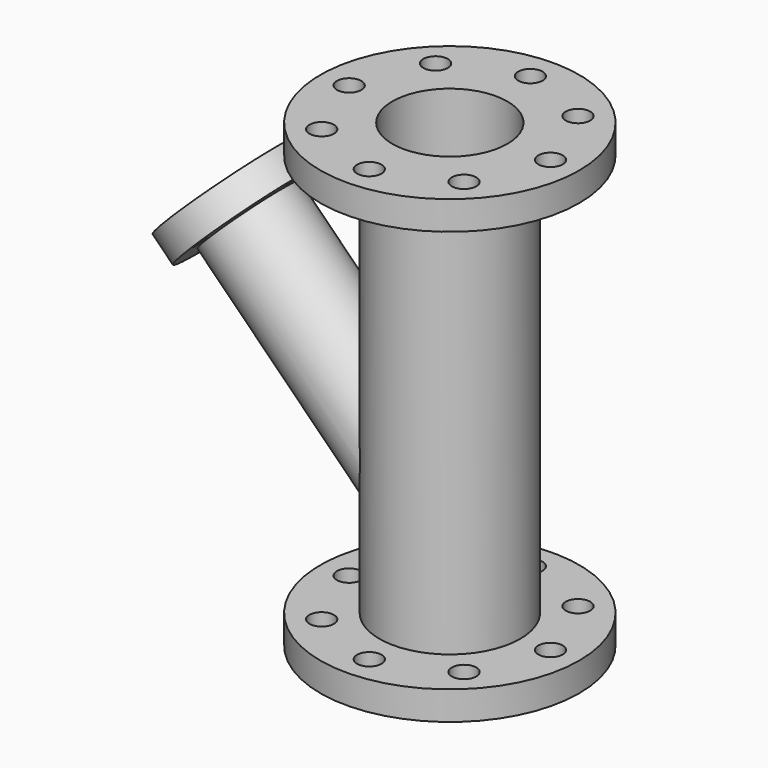
from build123d import *

# Parameters (mm, degrees)
F0_R      = 45
F1_DEPTH  = 10
F3_R      = 24.5
F4_DEPTH  = 140
F5_R      = 45
F5_R_2    = 24.5
F6_DEPTH  = 10
F7_R      = 20
F8_DEPTH  = 500
F10_D     = 8.5
F10_DEPTH = 11
F10_TIP   = 2.5536576309
F12_D     = 8.5
F12_DEPTH = 11
F12_TIP   = 2.5536576309
F15_R     = 16.6806608176
F16_DEPTH = 45
F17_R     = 24.6755230695
F17_R_2   = 16.6806608176
F18_DEPTH = 10
F20_D     = 5
F20_DEPTH = 11
F20_TIP   = 1.5021515476
F21_R     = 16.1397026247
F22_DEPTH = 90


with BuildPart() as f1:
    # F0 (on Top) → F1 (new body)
    with BuildSketch(Plane.XY):
        Circle(F0_R)
    extrude(amount=F1_DEPTH)

    # F3 (on face) → F4 (join)
    with BuildSketch(Plane.XY.offset(10)):
        Circle(F3_R)
    extrude(amount=F4_DEPTH)

    # F5 (on face) → F6 (join)
    with BuildSketch(Plane.XY.offset(150)):
        Circle(F5_R)
        Circle(F5_R_2, mode=Mode.SUBTRACT)
        Circle(F5_R_2)
    extrude(amount=F6_DEPTH)

    # F7 (on face) → F8 (cut)
    with BuildSketch(Plane.XY.offset(160)):
        Circle(F7_R)
    extrude(amount=-F8_DEPTH, mode=Mode.SUBTRACT)

    # F10
    with Locations(Plane(origin=(0, 0, 0), x_dir=(1, 0, 0), z_dir=(0, 0, -1))):
        with Locations((0, 35), (24.7487373415, 24.7487373415), (35, 0), (24.7487373415, -24.7487373415), (0, -35), (-24.7487373415, -24.7487373415), (-35, 0), (-24.7487373415, 24.7487373415)):
            Hole(F10_D / 2, depth=F10_DEPTH)
            with Locations((0, 0, -(F10_DEPTH + F10_TIP / 2))):  # 118° drill point
                Cone(0, F10_D / 2, F10_TIP, mode=Mode.SUBTRACT)

    # F12
    with Locations(Plane.XY.offset(160)):
        with Locations((-24.7487373415, 24.7487373415), (0, 35), (24.7487373415, 24.7487373415), (35, 0), (24.7487373415, -24.7487373415), (0, -35), (-24.7487373415, -24.7487373415), (-35, 0)):
            Hole(F12_D / 2, depth=F12_DEPTH)
            with Locations((0, 0, -(F12_DEPTH + F12_TIP / 2))):  # 118° drill point
                Cone(0, F12_D / 2, F12_TIP, mode=Mode.SUBTRACT)

    # F15 (on line) → F16 (join, symmetric)
    with BuildSketch(Plane(origin=(-57.7216097032, 0, 57.7216097032), x_dir=(0, -1, 0), z_dir=(-0.7071067812, 0, 0.7071067812))):
        with Locations((0, 27.7104377747)):
            Circle(F15_R)
    extrude(amount=F16_DEPTH, both=True)

    # F21 (on face) → F22 (cut)
    with BuildSketch(Plane(origin=(-89.5414148566, 0, 89.5414148566), x_dir=(0, -1, 0), z_dir=(-0.7071067812, 0, 0.7071067812))):
        with Locations((0, 27.7104377747)):
            Circle(F21_R)
    extrude(amount=-F22_DEPTH, mode=Mode.SUBTRACT)


with BuildPart() as f18:
    # F17 (on face) → F18 (new body)
    with BuildSketch(Plane(origin=(-89.5414148566, 0, 89.5414148566), x_dir=(0, -1, 0), z_dir=(-0.7071067812, 0, 0.7071067812))):
        with Locations((0, 27.7104377747)):
            Circle(F17_R)
        with Locations((0, 27.7104377747)):
            Circle(F17_R_2, mode=Mode.SUBTRACT)
    extrude(amount=F18_DEPTH)

    # F20
    with Locations(Plane(origin=(-89.5414148566, 0, 89.5414148566), x_dir=(0, -1, 0), z_dir=(0.7071067812, 0, -0.7071067812))):
        with Locations((0, -48.7612413972), (21.0508036225, -27.7104377747), (0, -6.6596341521), (-21.0508036225, -27.7104377747)):
            Hole(F20_D / 2, depth=F20_DEPTH)
            with Locations((0, 0, -(F20_DEPTH + F20_TIP / 2))):  # 118° drill point
                Cone(0, F20_D / 2, F20_TIP, mode=Mode.SUBTRACT)


solid = Compound([f1.part, f18.part])
